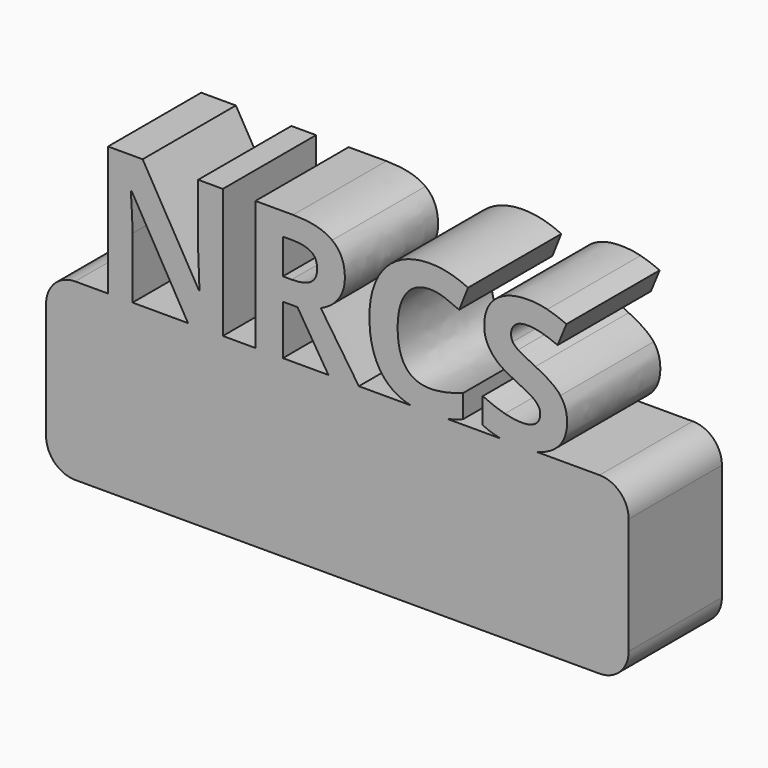
from build123d import *

# Parameters (mm, degrees)
F1_DEPTH = 25.4


with BuildPart() as f1:
    # F0 (on Front) → F1 (new body)
    with BuildSketch(Plane.XZ):
        with BuildLine():
            ThreePointArc((-37.3012647021, -10.5139339946), (-35.4413927627, -15.0040620552), (-30.9512647021, -16.8639339946))
            Line((-30.9512647021, -16.8639339946), (83.3487352979, -16.8639339946))
            ThreePointArc((83.3487352979, -16.8639339946), (87.8388633584, -15.0040620552), (89.6987352979, -10.5139339946))
            Line((89.6987352979, -10.5139339946), (89.6987352979, 14.8860660054))
            ThreePointArc((89.6987352979, 14.8860660054), (87.8388633584, 19.3761940659), (83.3487352979, 21.2360660054))
            Line((83.3487352979, 21.2360660054), (69.6107378608, 21.2360660054))
            add(Edge.make_bspline(
                [(69.6107378608, 21.2360660054), (67.9310832834, 20.846957727), (65.8721436381, 20.846957727)],
                knots=[0.5796214889, 0.5796214889, 0.5796214889, 1, 1, 1], degree=2))
            add(Edge.make_bspline(
                [(65.8721436381, 20.846957727), (63.712128793, 20.846957727), (61.7917820904, 21.2360660054)],
                knots=[0, 0, 0, 0.477766543, 0.477766543, 0.477766543], degree=2))
            Line((61.7917820904, 21.2360660054), (50.0748208435, 21.2360660054))
            add(Edge.make_bspline(
                [(50.0748208435, 21.2360660054), (48.0740341098, 20.846957727), (45.8546844283, 20.846957727)],
                knots=[0.4822306436, 0.4822306436, 0.4822306436, 1, 1, 1], degree=2))
            add(Edge.make_bspline(
                [(45.8546844283, 20.846957727), (43.8675938375, 20.846957727), (42.1821425568, 21.2360660054)],
                knots=[0, 0, 0, 0.3226952609, 0.3226952609, 0.3226952609], degree=2))
            Line((42.1821425568, 21.2360660054), (30.8771038717, 21.2360660054))
            Line((30.8771038717, 21.2360660054), (24.2375578518, 21.2360660054))
            Line((24.2375578518, 21.2360660054), (14.3183849141, 21.2360660054))
            Line((14.3183849141, 21.2360660054), (8.3335290134, 21.2360660054))
            Line((8.3335290134, 21.2360660054), (1.2307588525, 21.2360660054))
            Line((1.2307588525, 21.2360660054), (-6.3722933805, 21.2360660054))
            Line((-6.3722933805, 21.2360660054), (-18.4531789759, 21.2360660054))
            Line((-18.4531789759, 21.2360660054), (-23.8018737231, 21.2360660054))
            Line((-23.8018737231, 21.2360660054), (-30.9512647021, 21.2360660054))
            ThreePointArc((-30.9512647021, 21.2360660054), (-35.4413927627, 19.3761940659), (-37.3012647021, 14.8860660054))
            Line((-37.3012647021, 14.8860660054), (-37.3012647021, -10.5139339946))
        make_face()
        with BuildLine():
            Line((-23.8018737231, 49.4556806705), (-23.8018737231, 21.2360660054))
            Line((-23.8018737231, 21.2360660054), (-18.4531789759, 21.2360660054))
            Line((-18.4531789759, 21.2360660054), (-18.4531789759, 34.5151580452))
            add(Edge.make_bspline(
                [(-18.8237582886, 42.5814344192), (-18.4531789759, 36.9300998999), (-18.4531789759, 34.5151580452)],
                knots=[0, 0, 0, 1, 1, 1], degree=2))
            Line((-18.8237582886, 42.5814344192), (-18.650821276, 42.5814344192))
            Line((-18.650821276, 42.5814344192), (-6.3722933805, 21.2360660054))
            Line((-6.3722933805, 21.2360660054), (1.2307588525, 21.2360660054))
            Line((1.2307588525, 21.2360660054), (1.2307588525, 49.4556806705))
            Line((1.2307588525, 49.4556806705), (-4.154993826, 49.4556806705))
            Line((-4.154993826, 49.4556806705), (-4.154993826, 36.0962964462))
            add(Edge.make_bspline(
                [(-3.8647066977, 28.3203072006), (-4.154993826, 33.8234099948), (-4.154993826, 36.0962964462)],
                knots=[0, 0, 0, 1, 1, 1], degree=2))
            Line((-3.8647066977, 28.3203072006), (-4.000585779, 28.3203072006))
            Line((-4.000585779, 28.3203072006), (-16.2544083869, 49.4556806705))
            Line((-16.2544083869, 49.4556806705), (-23.8018737231, 49.4556806705))
        make_face()
        with BuildLine():
            add(Edge.make_bspline(
                [(69.6107378608, 21.2360660054), (67.9310832834, 20.846957727), (65.8721436381, 20.846957727)],
                knots=[0.5796214889, 0.5796214889, 0.5796214889, 1, 1, 1], degree=2))
            Line((69.6107378608, 21.2360660054), (61.7917820904, 21.2360660054))
            add(Edge.make_bspline(
                [(65.8721436381, 20.846957727), (63.712128793, 20.846957727), (61.7917820904, 21.2360660054)],
                knots=[0, 0, 0, 0.477766543, 0.477766543, 0.477766543], degree=2))
        make_face()
        with BuildLine():
            Line((61.7917820904, 21.2360660054), (69.6107378608, 21.2360660054))
            add(Edge.make_bspline(
                [(73.5215182852, 23.0488164769), (71.9266599676, 21.7725718298), (69.6107378608, 21.2360660054)],
                knots=[0, 0, 0, 0.5796214889, 0.5796214889, 0.5796214889], degree=2))
            add(Edge.make_bspline(
                [(76.2730696823, 29.0738184698), (76.2730696823, 25.2506752267), (73.5215182852, 23.0488164769)],
                knots=[0, 0, 0, 1, 1, 1], degree=2))
            add(Edge.make_bspline(
                [(74.8061932361, 33.7338533275), (76.2730696823, 31.8346343497), (76.2730696823, 29.0738184698)],
                knots=[0, 0, 0, 1, 1, 1], degree=2))
            add(Edge.make_bspline(
                [(69.3802944654, 37.5292031222), (73.3393167898, 35.6330723053), (74.8061932361, 33.7338533275)],
                knots=[0, 0, 0, 1, 1, 1], degree=2))
            add(Edge.make_bspline(
                [(65.5911209926, 39.5056261235), (66.3909546759, 38.9559334762), (69.3802944654, 37.5292031222)],
                knots=[0, 0, 0, 1, 1, 1], degree=2))
            add(Edge.make_bspline(
                [(64.4237961575, 40.6451575101), (64.7912873093, 40.0553187707), (65.5911209926, 39.5056261235)],
                knots=[0, 0, 0, 1, 1, 1], degree=2))
            add(Edge.make_bspline(
                [(64.0563050057, 42.0255654501), (64.0563050057, 41.2349962496), (64.4237961575, 40.6451575101)],
                knots=[0, 0, 0, 1, 1, 1], degree=2))
            add(Edge.make_bspline(
                [(64.9642243219, 44.0884569577), (64.0563050057, 43.2978877572), (64.0563050057, 42.0255654501)],
                knots=[0, 0, 0, 1, 1, 1], degree=2))
            add(Edge.make_bspline(
                [(67.5706321548, 44.8790261582), (65.8721436381, 44.8790261582), (64.9642243219, 44.0884569577)],
                knots=[0, 0, 0, 1, 1, 1], degree=2))
            add(Edge.make_bspline(
                [(70.4735034379, 44.5115350064), (68.9973625089, 44.8790261582), (67.5706321548, 44.8790261582)],
                knots=[0, 0, 0, 1, 1, 1], degree=2))
            add(Edge.make_bspline(
                [(74.2101781747, 43.2175955727), (71.949644367, 44.1440438546), (70.4735034379, 44.5115350064)],
                knots=[0, 0, 0, 1, 1, 1], degree=2))
            Line((74.2101781747, 43.2175955727), (76.137190601, 47.8745422695))
            add(Edge.make_bspline(
                [(71.9589088498, 49.3383305548), (73.9569489777, 48.819519517), (76.137190601, 47.8745422695)],
                knots=[0, 0, 0, 1, 1, 1], degree=2))
            add(Edge.make_bspline(
                [(67.7620981331, 49.8571415927), (69.960868722, 49.8571415927), (71.9589088498, 49.3383305548)],
                knots=[0, 0, 0, 1, 1, 1], degree=2))
            add(Edge.make_bspline(
                [(60.7457964785, 47.7170460616), (63.2842647708, 49.8571415927), (67.7620981331, 49.8571415927)],
                knots=[0, 0, 0, 1, 1, 1], degree=2))
            add(Edge.make_bspline(
                [(58.2073281863, 41.82792315), (58.2073281863, 45.5769505305), (60.7457964785, 47.7170460616)],
                knots=[0, 0, 0, 1, 1, 1], degree=2))
            add(Edge.make_bspline(
                [(58.9793684211, 38.356830254), (58.2073281863, 39.8453238268), (58.2073281863, 41.82792315)],
                knots=[0, 0, 0, 1, 1, 1], degree=2))
            add(Edge.make_bspline(
                [(61.0453480897, 35.750422421), (59.751408656, 36.8683366811), (58.9793684211, 38.356830254)],
                knots=[0, 0, 0, 1, 1, 1], degree=2))
            add(Edge.make_bspline(
                [(64.9209900687, 33.4157727508), (62.3392875233, 34.6325081609), (61.0453480897, 35.750422421)],
                knots=[0, 0, 0, 1, 1, 1], degree=2))
            add(Edge.make_bspline(
                [(68.580460782, 31.5042011292), (67.6818059486, 32.1002161905), (64.9209900687, 33.4157727508)],
                knots=[0, 0, 0, 1, 1, 1], degree=2))
            add(Edge.make_bspline(
                [(69.9423397564, 30.2596722706), (69.4791156154, 30.9081860679), (68.580460782, 31.5042011292)],
                knots=[0, 0, 0, 1, 1, 1], degree=2))
            add(Edge.make_bspline(
                [(70.4055638973, 28.7835313415), (70.4055638973, 29.6111584733), (69.9423397564, 30.2596722706)],
                knots=[0, 0, 0, 1, 1, 1], degree=2))
            add(Edge.make_bspline(
                [(69.3525010169, 26.5446146604), (70.4055638973, 27.2950377687), (70.4055638973, 28.7835313415)],
                knots=[0, 0, 0, 1, 1, 1], degree=2))
            add(Edge.make_bspline(
                [(66.335367779, 25.7941915521), (68.2994381365, 25.7941915521), (69.3525010169, 26.5446146604)],
                knots=[0, 0, 0, 1, 1, 1], degree=2))
            add(Edge.make_bspline(
                [(62.712954997, 26.3130025899), (64.6924661592, 25.7941915521), (66.335367779, 25.7941915521)],
                knots=[0, 0, 0, 1, 1, 1], degree=2))
            add(Edge.make_bspline(
                [(57.8799831267, 28.1103122567), (60.7334438348, 26.8318136278), (62.712954997, 26.3130025899)],
                knots=[0, 0, 0, 1, 1, 1], degree=2))
            Line((57.8799831267, 28.1103122567), (57.8799831267, 22.5516225656))
            add(Edge.make_bspline(
                [(61.7917820904, 21.2360660054), (59.6927039695, 21.6613895538), (57.8799831267, 22.5516225656)],
                knots=[0.477766543, 0.477766543, 0.477766543, 1, 1, 1], degree=2))
        make_face()
        with BuildLine():
            add(Edge.make_bspline(
                [(50.0748208435, 21.2360660054), (48.0740341098, 20.846957727), (45.8546844283, 20.846957727)],
                knots=[0.4822306436, 0.4822306436, 0.4822306436, 1, 1, 1], degree=2))
            Line((50.0748208435, 21.2360660054), (42.1821425568, 21.2360660054))
            add(Edge.make_bspline(
                [(45.8546844283, 20.846957727), (43.8675938375, 20.846957727), (42.1821425568, 21.2360660054)],
                knots=[0, 0, 0, 0.3226952609, 0.3226952609, 0.3226952609], degree=2))
        make_face()
        with BuildLine():
            Line((42.1821425568, 21.2360660054), (50.0748208435, 21.2360660054))
            add(Edge.make_bspline(
                [(53.6121447083, 22.2983933686), (51.9382773469, 21.5984666249), (50.0748208435, 21.2360660054)],
                knots=[0, 0, 0, 0.4822306436, 0.4822306436, 0.4822306436], degree=2))
            Line((53.6121447083, 22.2983933686), (53.6121447083, 27.3135667343))
            add(Edge.make_bspline(
                [(46.4167297193, 25.8312494834), (49.3875405431, 25.8312494834), (53.6121447083, 27.3135667343)],
                knots=[0, 0, 0, 1, 1, 1], degree=2))
            add(Edge.make_bspline(
                [(39.332488524, 35.2686693145), (39.332488524, 25.8312494834), (46.4167297193, 25.8312494834)],
                knots=[0, 0, 0, 1, 1, 1], degree=2))
            add(Edge.make_bspline(
                [(41.1853850877, 42.3405578659), (39.332488524, 39.8020895736), (39.332488524, 35.2686693145)],
                knots=[0, 0, 0, 1, 1, 1], degree=2))
            add(Edge.make_bspline(
                [(46.4167297193, 44.8790261582), (43.0382816514, 44.8790261582), (41.1853850877, 42.3405578659)],
                knots=[0, 0, 0, 1, 1, 1], degree=2))
            add(Edge.make_bspline(
                [(49.5604775557, 44.3200690281), (47.960810189, 44.8790261582), (46.4167297193, 44.8790261582)],
                knots=[0, 0, 0, 1, 1, 1], degree=2))
            add(Edge.make_bspline(
                [(52.7474596452, 43.0076006288), (51.1601449223, 43.7611118981), (49.5604775557, 44.3200690281)],
                knots=[0, 0, 0, 1, 1, 1], degree=2))
            Line((52.7474596452, 43.0076006288), (54.6744720715, 47.8745422695))
            add(Edge.make_bspline(
                [(46.4167297193, 49.8571415927), (50.5239837688, 49.8571415927), (54.6744720715, 47.8745422695)],
                knots=[0, 0, 0, 1, 1, 1], degree=2))
            add(Edge.make_bspline(
                [(39.3818990991, 48.0938016962), (42.3835915323, 49.8571415927), (46.4167297193, 49.8571415927)],
                knots=[0, 0, 0, 1, 1, 1], degree=2))
            add(Edge.make_bspline(
                [(34.7774511383, 43.0199532726), (36.3802066659, 46.3304617997), (39.3818990991, 48.0938016962)],
                knots=[0, 0, 0, 1, 1, 1], degree=2))
            add(Edge.make_bspline(
                [(33.1746956107, 35.3057272457), (33.1746956107, 39.7094447455), (34.7774511383, 43.0199532726)],
                knots=[0, 0, 0, 1, 1, 1], degree=2))
            add(Edge.make_bspline(
                [(36.4357935628, 24.5836324638), (33.1746956107, 28.3203072006), (33.1746956107, 35.3057272457)],
                knots=[0, 0, 0, 1, 1, 1], degree=2))
            add(Edge.make_bspline(
                [(42.1821425568, 21.2360660054), (38.6445506604, 22.0527649561), (36.4357935628, 24.5836324638)],
                knots=[0.3226952609, 0.3226952609, 0.3226952609, 1, 1, 1], degree=2))
        make_face()
        with BuildLine():
            Line((8.3335290134, 49.4556806705), (8.3335290134, 21.2360660054))
            Line((8.3335290134, 21.2360660054), (14.3183849141, 21.2360660054))
            Line((14.3183849141, 21.2360660054), (14.3183849141, 32.0631582593))
            Line((14.3183849141, 32.0631582593), (17.4991906818, 32.0631582593))
            Line((17.4991906818, 32.0631582593), (24.2375578518, 21.2360660054))
            Line((24.2375578518, 21.2360660054), (30.8771038717, 21.2360660054))
            add(Edge.make_bspline(
                [(22.5761272663, 33.5331228665), (28.9500914454, 24.0154108509), (30.8771038717, 21.2360660054)],
                knots=[0, 0, 0, 1, 1, 1], degree=2))
            add(Edge.make_bspline(
                [(26.4579455673, 36.5718732309), (25.0898902711, 34.6325081609), (22.5761272663, 33.5331228665)],
                knots=[0, 0, 0, 1, 1, 1], degree=2))
            add(Edge.make_bspline(
                [(27.8260008635, 41.0002960182), (27.8260008635, 38.5112383009), (26.4579455673, 36.5718732309)],
                knots=[0, 0, 0, 1, 1, 1], degree=2))
            add(Edge.make_bspline(
                [(25.0682731445, 47.3619075535), (27.8260008635, 45.2681344366), (27.8260008635, 41.0002960182)],
                knots=[0, 0, 0, 1, 1, 1], degree=2))
            add(Edge.make_bspline(
                [(16.5542134343, 49.4556806705), (22.3105454255, 49.4556806705), (25.0682731445, 47.3619075535)],
                knots=[0, 0, 0, 1, 1, 1], degree=2))
            Line((16.5542134343, 49.4556806705), (8.3335290134, 49.4556806705))
        make_face()
        with BuildLine():
            Line((16.2453973404, 36.9300998999), (14.3183849141, 36.9300998999))
            Line((14.3183849141, 36.9300998999), (14.3183849141, 44.5516810986))
            Line((14.3183849141, 44.5516810986), (16.1342235465, 44.5516810986))
            add(Edge.make_bspline(
                [(20.4051501259, 43.7024368402), (19.0247421859, 44.5516810986), (16.1342235465, 44.5516810986)],
                knots=[0, 0, 0, 1, 1, 1], degree=2))
            add(Edge.make_bspline(
                [(21.7855580658, 40.8458879712), (21.7855580658, 42.8531925819), (20.4051501259, 43.7024368402)],
                knots=[0, 0, 0, 1, 1, 1], degree=2))
            add(Edge.make_bspline(
                [(20.4360317353, 37.8750771474), (21.7855580658, 38.8200543949), (21.7855580658, 40.8458879712)],
                knots=[0, 0, 0, 1, 1, 1], degree=2))
            add(Edge.make_bspline(
                [(16.2453973404, 36.9300998999), (19.0865054047, 36.9300998999), (20.4360317353, 37.8750771474)],
                knots=[0, 0, 0, 1, 1, 1], degree=2))
        make_face(mode=Mode.SUBTRACT)
    extrude(amount=F1_DEPTH)


solid = f1.part
